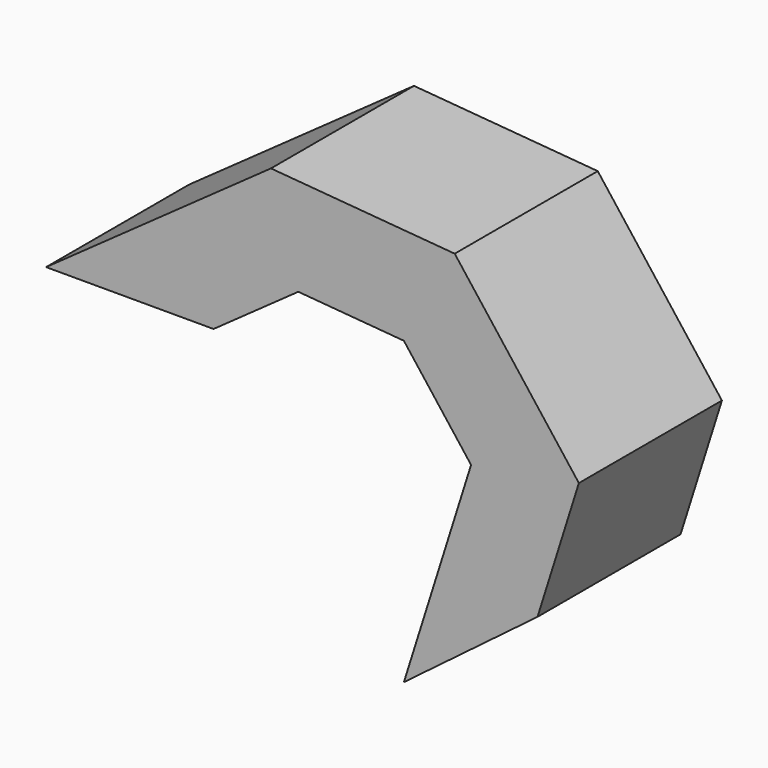
from build123d import *

# Parameters (mm, degrees)
F0_W = 55.5998794734
F0_H = 59.3593008816


with BuildPart() as f2:
    # F2: sweep along a path in F1
    with BuildLine(Plane.XZ) as f2_path:
        Line((0, 0), (51.3951145113, 36.5762151778))
        Line((51.3951145113, 36.5762151778), (99.4288995862, 32.5775817037))
        Line((99.4288995862, 32.5775817037), (131.1959028244, -8.7538054213))
        Line((131.1959028244, -8.7538054213), (113.1796464324, -65.9180954099))
    # F0 (on Top) → F2 (sweep)
    with BuildSketch(Plane.XY):
        Rectangle(F0_W, F0_H)
    sweep(path=f2_path.line, transition=Transition.RIGHT)


solid = f2.part
